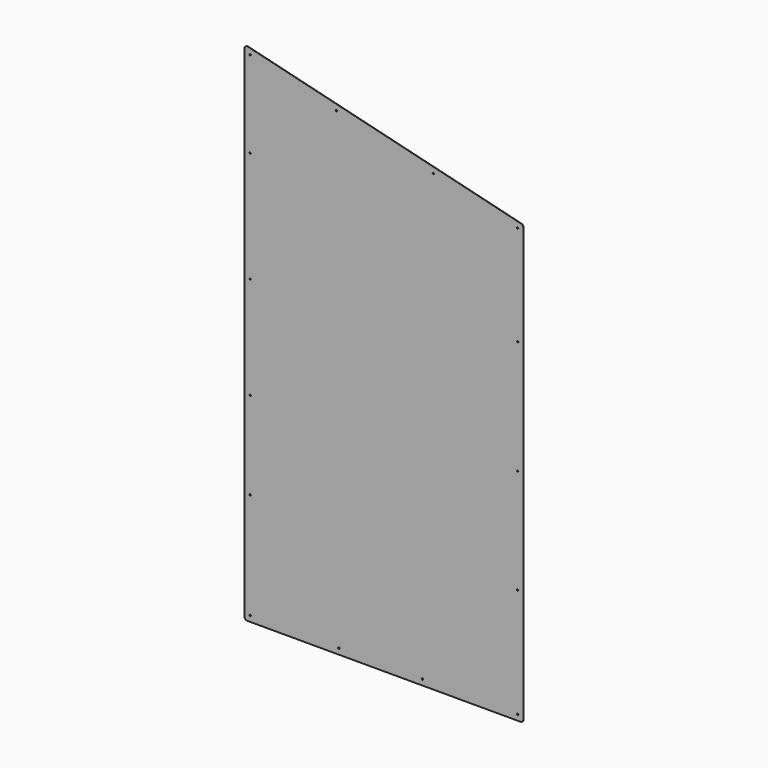
from build123d import *

# Parameters (mm, degrees)
F1_DEPTH = 1.3208
F2_R     = 3.175
F3_DEPTH = 25.4
F4_R     = 12.7


with BuildPart() as f1:
    # F0 (on Front) → F1 (new body)
    with BuildSketch(Plane.XZ):
        Polygon((0, 2260.6), (0, 0), (1244.6, 0), (1244.6, 1955.8), align=None)
    extrude(amount=F1_DEPTH)

    # F2 (on face) → F3 (cut)
    with BuildSketch(Plane.XZ.offset(1.3208)):
        with Locations((25.4, 2228.229)):
            Circle(F2_R)
        with Locations((1219.2, 1935.869816)):
            Circle(F2_R)
        with Locations((410.443912, 2133.932531)):
            Circle(F2_R)
        with Locations((843.355338, 2027.913407)):
            Circle(F2_R)
        with Locations((1219.2, 25.4)):
            Circle(F2_R)
        with Locations((25.4, 25.4)):
            Circle(F2_R)
        with Locations((421.263099, 25.4)):
            Circle(F2_R)
        with Locations((794.35122, 25.4)):
            Circle(F2_R)
        with Locations((1219.2, 980.634908)):
            Circle(F2_R)
        with Locations((1219.2, 1489.178419)):
            Circle(F2_R)
        with Locations((1219.2, 513.280332)):
            Circle(F2_R)
        with Locations((25.4, 1346.962094)):
            Circle(F2_R)
        with Locations((25.4, 890.889168)):
            Circle(F2_R)
        with Locations((25.4, 498.568296)):
            Circle(F2_R)
        with Locations((25.4, 1842.267275)):
            Circle(F2_R)
    extrude(amount=-F3_DEPTH, mode=Mode.SUBTRACT)

    # F4
    f4_edges = [f1.edges().sort_by_distance(p)[0] for p in [
        (1244.6, -0.6604, 1955.8),
        (0, -0.6604, 2260.6),
        (1244.6, -0.6604, 0),
        (0, -0.6604, 0),
    ]]
    fillet(f4_edges, radius=F4_R)


solid = f1.part
